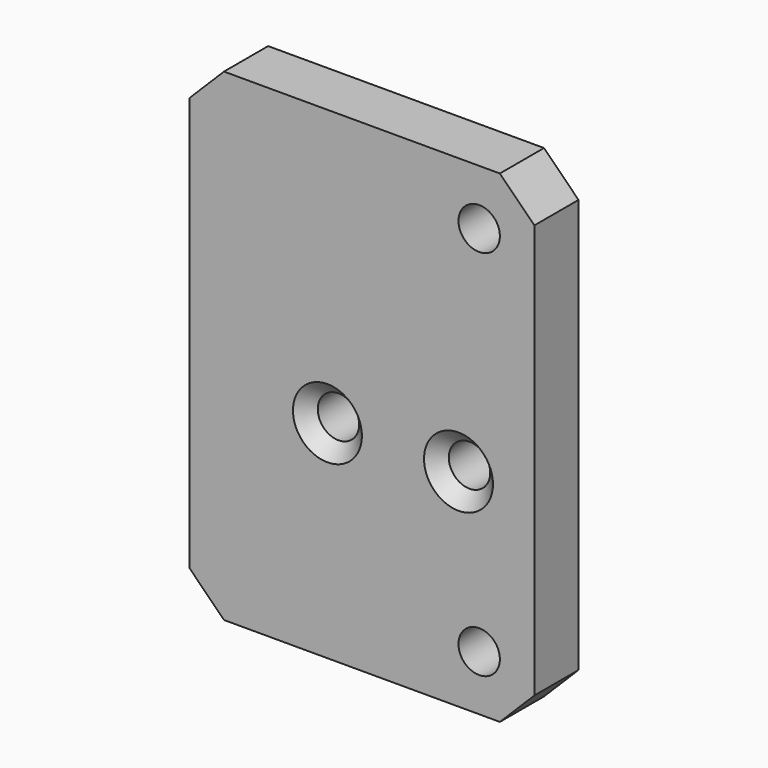
from build123d import *

# Parameters (mm, degrees)
F0_W     = 50
F0_H     = 70
F0_R     = 3
F1_DEPTH = 8
F2_SIZE  = 2
F3_SIZE  = 5


with BuildPart() as f1:
    # F0 (on Front) → F1 (new body)
    with BuildSketch(Plane.XZ):
        with Locations((-5.015146, 9.995409)):
            Rectangle(F0_W, F0_H)
        with Locations((-10.015146, 4.995409)):
            Circle(F0_R, mode=Mode.SUBTRACT)
        with Locations((11.984854, -17.004591)):
            Circle(F0_R, mode=Mode.SUBTRACT)
        with Locations((8.984854, 4.995409)):
            Circle(F0_R, mode=Mode.SUBTRACT)
        with Locations((11.984854, 36.995409)):
            Circle(F0_R, mode=Mode.SUBTRACT)
    extrude(amount=F1_DEPTH)

    # F2
    f2_edges = [f1.edges().sort_by_distance(p)[0] for p in [
        (-13.015146, -8, 4.995409),
        (5.984854, -8, 4.995409),
    ]]
    chamfer(f2_edges, length=F2_SIZE)

    # F3
    f3_edges = [f1.edges().sort_by_distance(p)[0] for p in [
        (19.984854, -4, 44.995409),
        (19.984854, -4, -25.004591),
        (-30.015146, -4, 44.995409),
        (-30.015146, -4, -25.004591),
    ]]
    chamfer(f3_edges, length=F3_SIZE)


solid = f1.part
